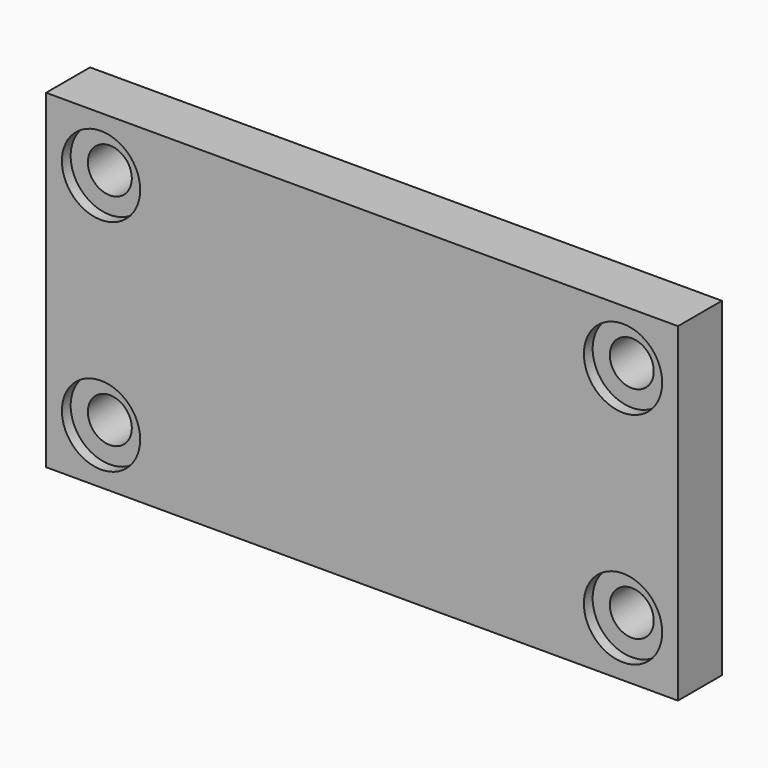
from build123d import *

# Parameters (mm, degrees)
F0_W           = 115
F0_H           = 60
F1_DEPTH       = 10
F3_D           = 8
F3_DEPTH       = 10
F3_CBORE_D     = 14.25
F3_CBORE_DEPTH = 2


with BuildPart() as f1:
    # F0 (on Front) → F1 (new body)
    with BuildSketch(Plane.XZ):
        with Locations((57.5, 30)):
            Rectangle(F0_W, F0_H)
    extrude(amount=F1_DEPTH)

    # F3
    with Locations(Plane.XZ.offset(10)):
        with Locations((10, 50), (105, 50), (105, 10), (10, 10)):
            CounterBoreHole(F3_D / 2, F3_CBORE_D / 2, F3_CBORE_DEPTH, depth=F3_DEPTH)


solid = f1.part
